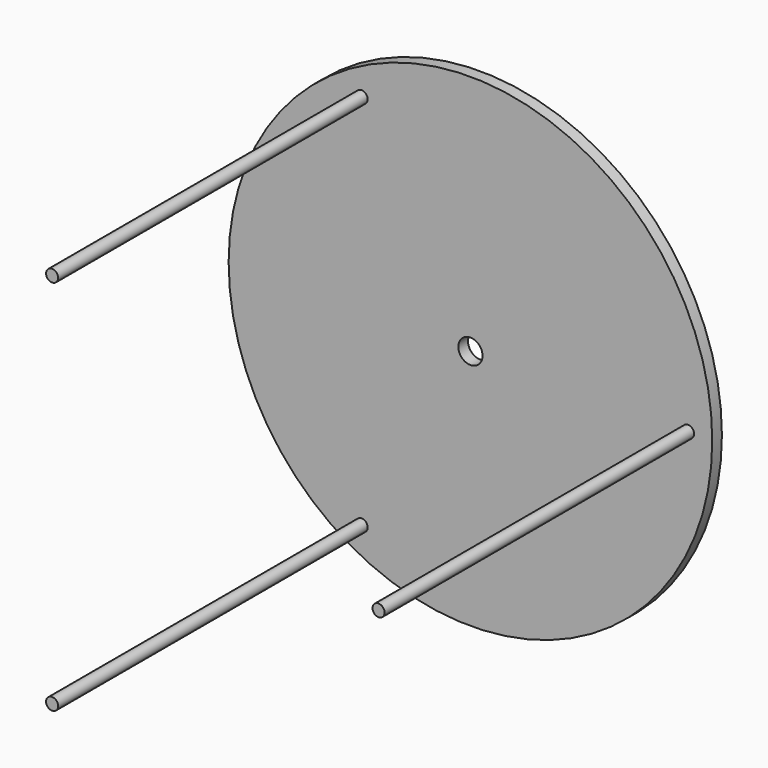
from build123d import *

# Parameters (mm, degrees)
F0_R     = 127
F0_R_2   = 6.35
F1_DEPTH = 6.35
F2_R     = 3.175
F3_DEPTH = 203.2


with BuildPart() as f1:
    # F0 (on Front) → F1 (new body)
    with BuildSketch(Plane.XZ):
        Circle(F0_R)
        Circle(F0_R_2, mode=Mode.SUBTRACT)
    extrude(amount=F1_DEPTH)

    # F2 (on face) → F3 (join)
    with BuildSketch(Plane.XZ.offset(6.35)):
        with Locations((114.3, 0)):
            Circle(F2_R)
        with Locations((-57.15, 98.986704)):
            Circle(F2_R)
        with Locations((-57.15, -98.986704)):
            Circle(F2_R)
    extrude(amount=F3_DEPTH)


solid = f1.part
